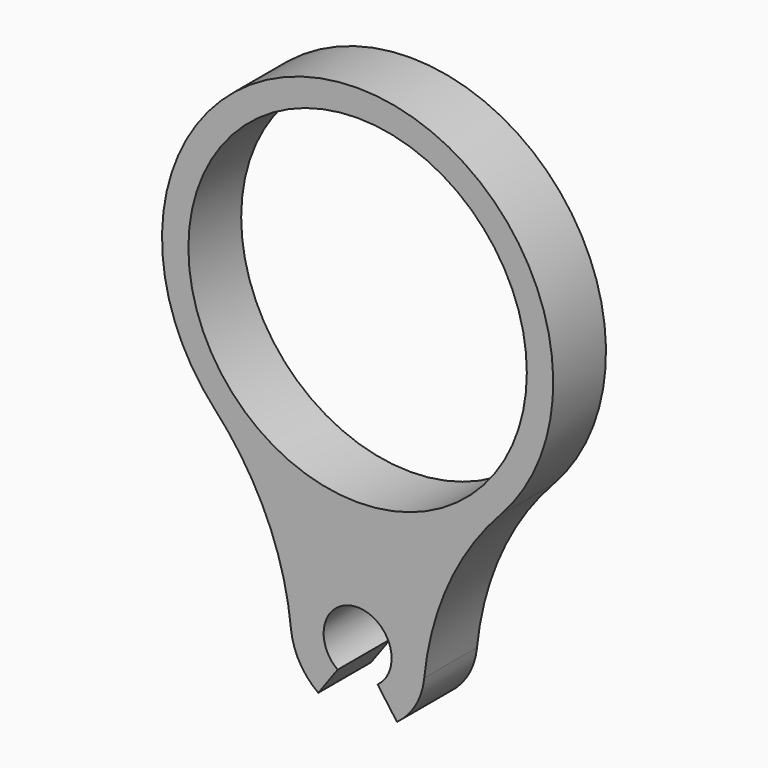
from build123d import *

# Parameters (mm, degrees)
F0_R     = 12.825
F1_DEPTH = 5


with BuildPart() as f1:
    # F0 (on Front) → F1 (new body)
    with BuildSketch(Plane.XZ):
        with BuildLine():
            ThreePointArc((-1.513547, -4.804002), (0, -0.145783), (1.513547, -4.804002))
            Line((1.513547, -4.804002), (2.98301, -6.826544))
            ThreePointArc((2.98301, -6.826544), (4.402496, -5.245392), (5.050221, -3.221673))
            ThreePointArc((5.050221, -3.221673), (6.891336, 3.645865), (10.835703, 9.561502))
            ThreePointArc((10.835703, 9.561502), (0, 34.504217), (-10.835703, 9.561502))
            ThreePointArc((-10.835703, 9.561502), (-6.891336, 3.645865), (-5.050221, -3.221673))
            ThreePointArc((-5.050221, -3.221673), (-4.402496, -5.245392), (-2.98301, -6.826544))
            Line((-2.98301, -6.826544), (-1.513547, -4.804002))
        make_face()
        with Locations((0, 19.679217)):
            Circle(F0_R, mode=Mode.SUBTRACT)
    extrude(amount=F1_DEPTH)


solid = f1.part
